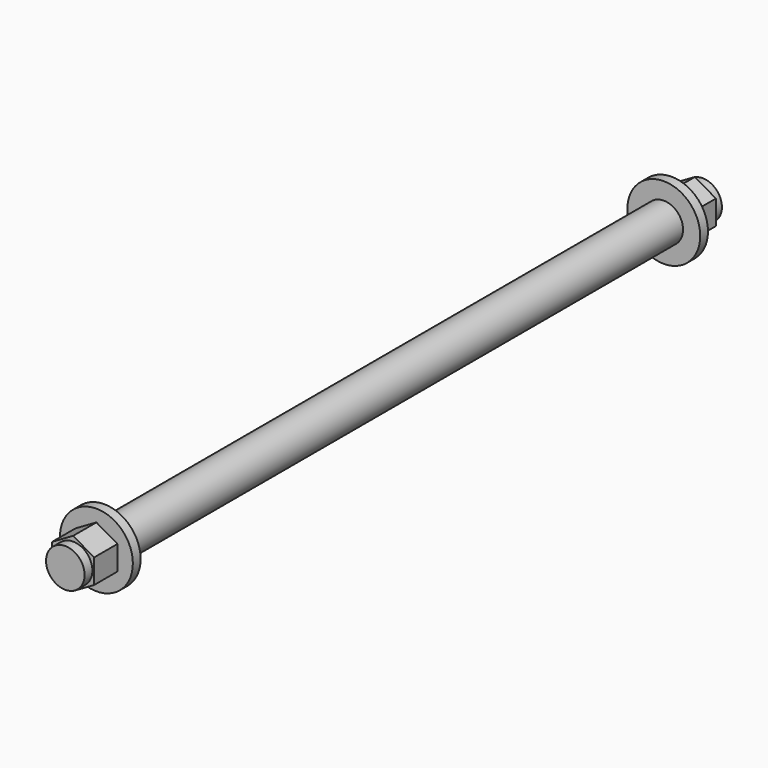
from build123d import *

# Parameters (mm, degrees)
SKETCH013_R     = 3.96875
PAD009_DEPTH    = 164
SKETCH014_R     = 7.5
PAD010_DEPTH    = 10
SKETCH015_R     = 7.5
POCKET003_DEPTH = 8
SKETCH016_R     = 7.5
SKETCH016_R_2   = 3.96875
POCKET004_DEPTH = 2
SKETCH017_R     = 7.5
PAD011_DEPTH    = 10
SKETCH018_R     = 7.5
POCKET005_DEPTH = 8
SKETCH019_R     = 7.5
SKETCH019_R_2   = 3.96875
POCKET006_DEPTH = 2


with BuildPart() as part:
    # Sketch013 → Pad009 (new body)
    with BuildSketch(Plane(origin=(500, 82, 56), x_dir=(1, 0, 0), z_dir=(0, -1, 0))):
        Circle(SKETCH013_R)
    extrude(amount=PAD009_DEPTH)

    # Sketch014 → Pad010 (new body)
    with BuildSketch(Plane(origin=(500, 82, 56), x_dir=(1, 0, 0), z_dir=(0, 1, 0))):
        Circle(SKETCH014_R)
    extrude(amount=-PAD010_DEPTH)

    # Sketch015 → Pocket003 (cut)
    with BuildSketch(Plane(origin=(500, 82, 56), x_dir=(1, 0, 0), z_dir=(0, 1, 0))):
        Circle(SKETCH015_R)
        Polygon((0, 5), (-4.330127, 2.5), (-4.330127, -2.5), (0, -5), (4.330127, -2.5), (4.330127, 2.5), align=None, mode=Mode.SUBTRACT)
    extrude(amount=-POCKET003_DEPTH, mode=Mode.SUBTRACT)

    # Sketch016 → Pocket004 (cut)
    with BuildSketch(Plane(origin=(500, 82, 56), x_dir=(1, 0, 0), z_dir=(0, 1, 0))):
        Circle(SKETCH016_R)
        Circle(SKETCH016_R_2, mode=Mode.SUBTRACT)
    extrude(amount=-POCKET004_DEPTH, mode=Mode.SUBTRACT)

    # Sketch017 → Pad011 (new body)
    with BuildSketch(Plane(origin=(500, -82, 56), x_dir=(1, 0, 0), z_dir=(0, -1, 0))):
        Circle(SKETCH017_R)
    extrude(amount=-PAD011_DEPTH)

    # Sketch018 → Pocket005 (cut)
    with BuildSketch(Plane(origin=(500, -82, 56), x_dir=(1, 0, 0), z_dir=(0, -1, 0))):
        Circle(SKETCH018_R)
        Polygon((0, 5), (-4.330127, 2.5), (-4.330127, -2.5), (0, -5), (4.330127, -2.5), (4.330127, 2.5), align=None, mode=Mode.SUBTRACT)
    extrude(amount=-POCKET005_DEPTH, mode=Mode.SUBTRACT)

    # Sketch019 → Pocket006 (cut)
    with BuildSketch(Plane(origin=(500, -82, 56), x_dir=(1, 0, 0), z_dir=(0, -1, 0))):
        Circle(SKETCH019_R)
        Circle(SKETCH019_R_2, mode=Mode.SUBTRACT)
    extrude(amount=-POCKET006_DEPTH, mode=Mode.SUBTRACT)


with BuildPart() as part_1:
    # Clone018 placement: moved
    add(part.part.moved(Location((-951.5, 0, -28))))


solid = part_1.part
